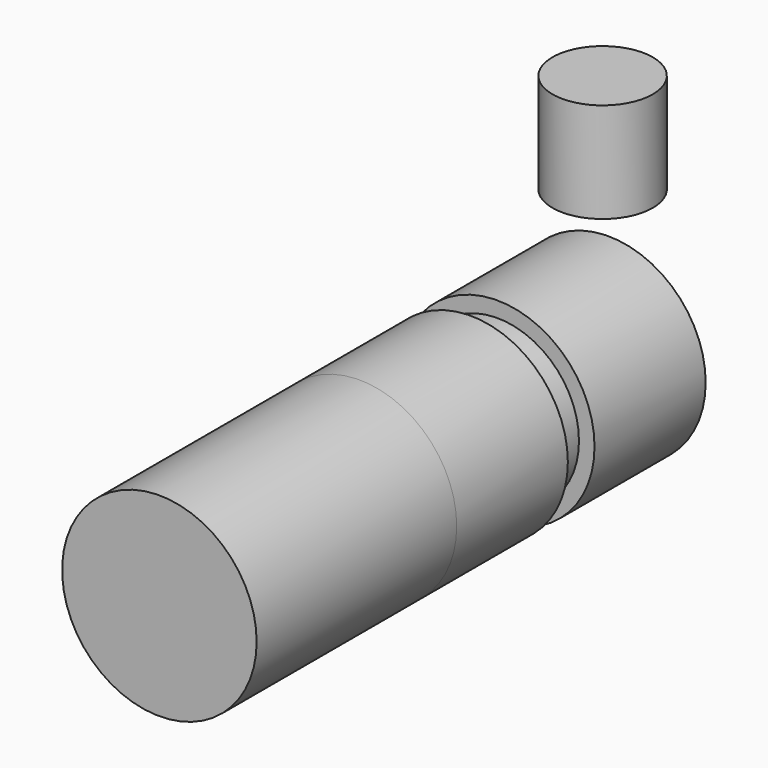
from build123d import *

# Parameters (mm, degrees)
F0_R     = 17.5
F1_DEPTH = 25
F2_R     = 14.701
F3_DEPTH = 28
F5_DEPTH = 45
F6_R     = 9.0298312591
F7_DEPTH = 18


with BuildPart() as f1:
    # F0 (on Front) → F1 (new body)
    with BuildSketch(Plane.XZ):
        Circle(F0_R)
    extrude(amount=F1_DEPTH)

    # F2 (on Front) → F3 (join)
    with BuildSketch(Plane.XZ):
        Circle(F2_R)
    extrude(amount=F3_DEPTH)

    # F4: F1 across face


with BuildPart() as f1_1:
    add(f1.part)
    add(f1.part.mirror(Plane.XZ.offset(28)))

    # F5 (add): a face of the model
    f5_faces = [f1_1.faces().sort_by_distance(p)[0] for p in [
        (0, -56, 0),
    ]]
    extrude(f5_faces, amount=F5_DEPTH)


with BuildPart() as f7:
    # F6 (on Top) → F7 (new body)
    with BuildSketch(Plane.XY):
        with Locations((-30.5293500423, 36.8537791073)):
            Circle(F6_R)
    extrude(amount=F7_DEPTH)


solid = Compound([f1_1.part, f7.part])
